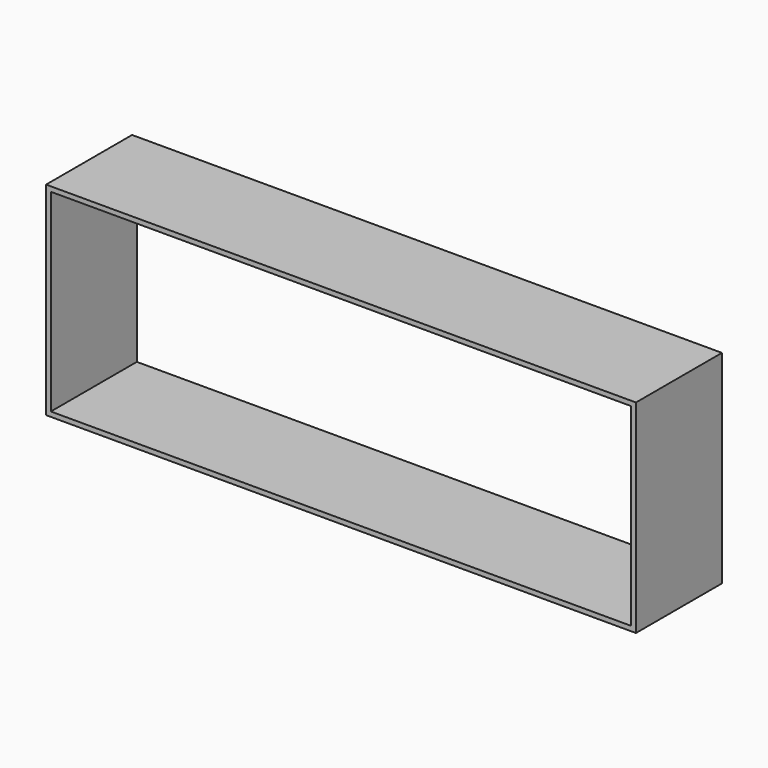
from build123d import *

# Parameters (mm, degrees)
SKETCH001_W      = 20
SKETCH001_H      = 450
EXTRUDE001_DEPTH = 850
SKETCH_W         = 2430
SKETCH_H         = 450
EXTRUDE_DEPTH    = 20


with BuildPart() as obj1:
    # Sketch001 → Extrude001 (new body)
    with BuildSketch(Plane.XY):
        with Locations((10, 225)):
            Rectangle(SKETCH001_W, SKETCH001_H)
    extrude(amount=EXTRUDE001_DEPTH)


with BuildPart() as obj2:
    # Clone001 base: copy of obj1
    add(obj1.part)


with BuildPart() as obj2_1:
    # Clone001 placement: moved
    add(obj2.part.moved(Location((2450, 0, 0))))


with BuildPart() as tampo_inferior:
    # Sketch → Extrude (new body)
    with BuildSketch(Plane.XY):
        with Locations((1215, 225)):
            Rectangle(SKETCH_W, SKETCH_H)
    extrude(amount=EXTRUDE_DEPTH)


with BuildPart() as tampo_inferior_1:
    # Extrude placement: moved
    add(tampo_inferior.part.moved(Location((20, 0, 0))))


with BuildPart() as tampo:
    # Clone base: copy of Tampo inferior
    add(tampo_inferior_1.part)


with BuildPart() as tampo_1:
    # Clone placement: moved
    add(tampo.part.moved(Location((0, 0, 830))))


with BuildPart() as obj3:
    # Fusion base: copy of Tampo inferior
    add(tampo_inferior_1.part)

    # Fusion: union obj2, tampo, obj1
    add(obj2_1.part)
    add(tampo_1.part)
    add(obj1.part)


solid = obj3.part
